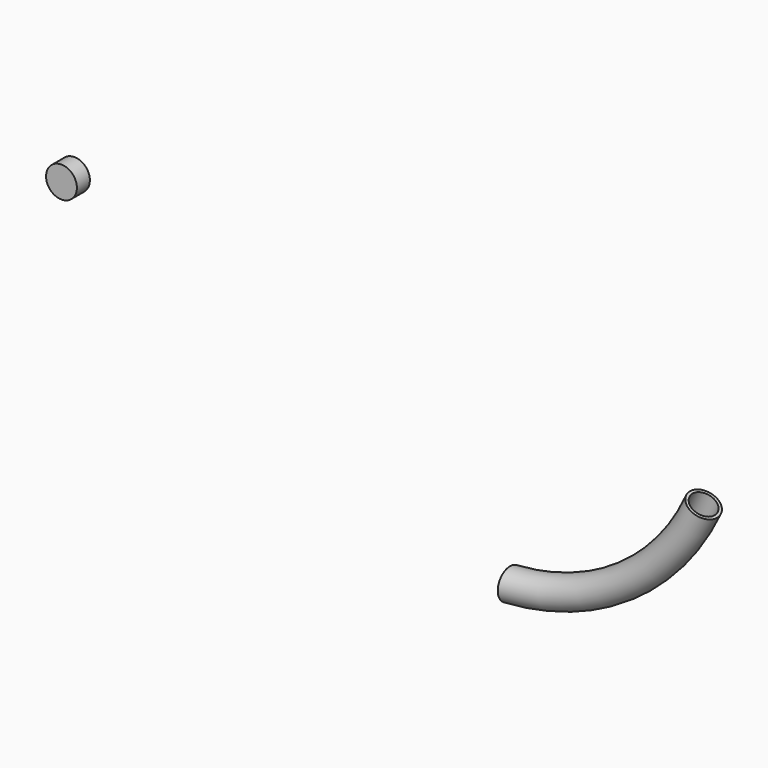
from build123d import *

# Parameters (mm, degrees)
F0_R     = 19
F0_R_2   = 15.5
F3_R     = 19
F4_DEPTH = 20


with BuildPart() as f2:
    # F2: sweep along a path in F1
    with BuildLine(Plane.XZ) as f2_path:
        ThreePointArc((0, 0), (141.8091030578, 48.8524626845), (238.5125350627, 163.5033722267))
    # F0 (on Right) → F2 (sweep)
    with BuildSketch(Plane.YZ):
        Circle(F0_R)
        Circle(F0_R_2, mode=Mode.SUBTRACT)
    sweep(path=f2_path.line)


with BuildPart() as f4:
    # F3 (on Front) → F4 (new body)
    with BuildSketch(Plane.XZ):
        with Locations((-536.9620919228, 269.290804863)):
            Circle(F3_R)
    extrude(amount=F4_DEPTH)


solid = Compound([f2.part, f4.part])
